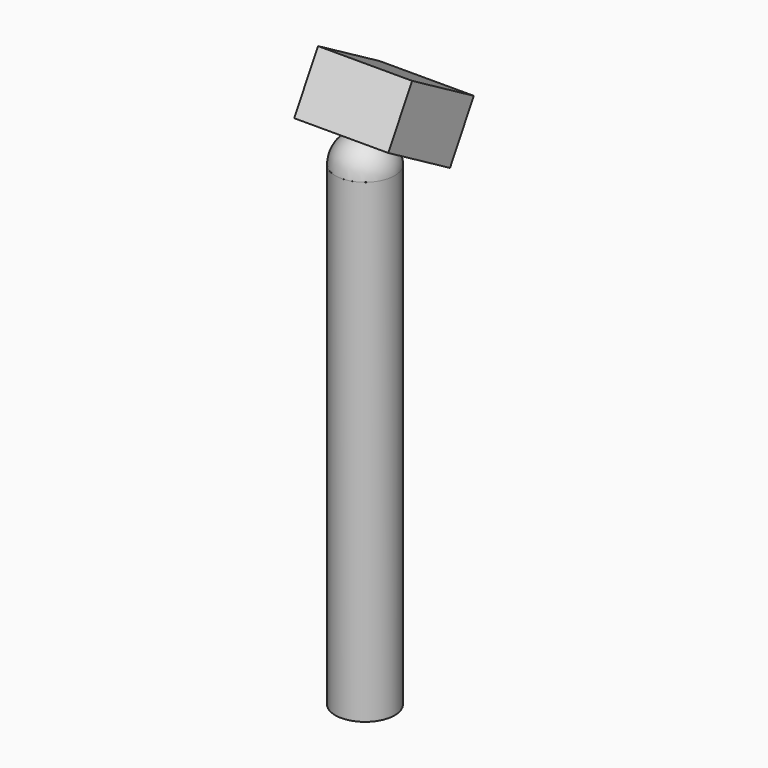
from build123d import *

# Parameters (mm, degrees)
F0_R      = 25
F1_DEPTH  = 400
F3_ANGLE  = 180
F5_W      = 79.225372
F5_H      = 75
F6_DEPTH  = 50
F11_ANGLE = 30


with BuildPart() as f1:
    # F0 (on Top) → F1 (new body)
    with BuildSketch(Plane.XY):
        Circle(F0_R)
    extrude(amount=F1_DEPTH)


with BuildPart() as f3:
    # F2 (on face) → F3 (revolve)
    with BuildSketch(Plane.XY.offset(400)):
        with BuildLine():
            ThreePointArc((-25, 0), (0, -25), (25, 0))
            Line((25, 0), (-25, 0))
        make_face()
    revolve(axis=Axis((0, 0, 400), (-1, 0, 0)), revolution_arc=F3_ANGLE)


with BuildPart() as f6:
    # F5 (on offset) → F6 (new body)
    with BuildSketch(Plane.XY.offset(600)):
        Rectangle(F5_W, F5_H)
    extrude(amount=F6_DEPTH)


with BuildPart() as f6_1:
    # F8: moved
    add(f6.part.moved(Location((0, 0, -185))))

    # F9: cut F3
    add(f3.part, mode=Mode.SUBTRACT)


with BuildPart() as f6_2:
    # F11: moved
    add(f6_1.part.rotate(Axis((3.442641, 0, 400), (-1, 0, 0)), F11_ANGLE))


solid = Compound([f1.part, f3.part, f6_2.part])
